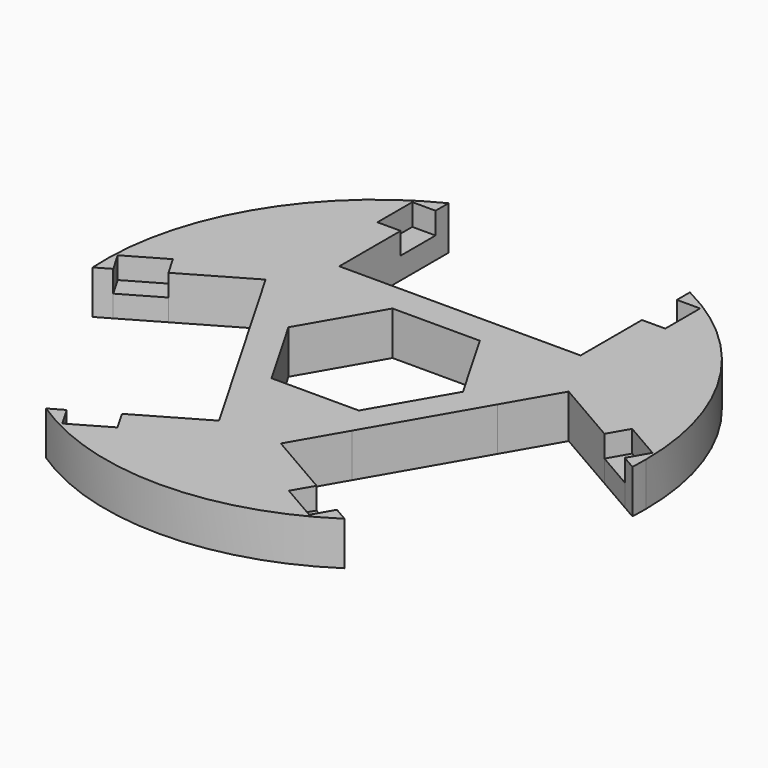
from build123d import *

# Parameters (mm, degrees)
F1_DEPTH = 3.81
F0_W     = 2.032
F0_H     = 3.81
F2_DEPTH = 1.905


with BuildPart() as f1:
    # F0 (on Top) → F1 (new body)
    with BuildSketch(Plane.XY):
        with BuildLine():
            Line((-10.541, 19.71677), (-10.541, 21.139683))
            ThreePointArc((-10.541, 21.139683), (-20.457252, 11.811), (-23.578003, -1.441068))
            Line((-23.578003, -1.441068), (-22.345724, -0.729611))
            Line((-22.345724, -0.729611), (-23.361724, 1.030152))
            Line((-23.361724, 1.030152), (-20.062167, 2.935152))
            Line((-20.062167, 2.935152), (-19.046167, 1.175389))
            Line((-19.046167, 1.175389), (-13.239391, 4.527932))
            Line((-13.239391, 4.527932), (-10.625188, 0))
            Line((-10.625188, 0), (-5.312594, 9.201683))
            Line((-5.312594, 9.201683), (-10.541, 9.201683))
            Line((-10.541, 9.201683), (-10.541, 15.90677))
            Line((-10.541, 15.90677), (-12.573, 15.90677))
            Line((-12.573, 15.90677), (-12.573, 19.71677))
            Line((-12.573, 19.71677), (-10.541, 19.71677))
        make_face()
        Polygon((10.625188, 0), (5.312594, 9.201683), (-5.312594, 9.201683), (-10.625188, 0), (-5.312594, -9.201683), (5.312594, -9.201683), align=None)
        Polygon((-7.625642, 0), (-3.812821, 6.604), (3.812821, 6.604), (7.625642, 0), (3.812821, -6.604), (-3.812821, -6.604), align=None, mode=Mode.SUBTRACT)
        with BuildLine():
            ThreePointArc((23.578003, -1.441068), (23.610998, -0.72087), (23.622, 0))
            ThreePointArc((23.622, 0), (20.087289, 12.42979), (10.541, 21.139683))
            Line((10.541, 21.139683), (10.541, 19.71677))
            Line((10.541, 19.71677), (12.573, 19.71677))
            Line((12.573, 19.71677), (12.573, 15.90677))
            Line((12.573, 15.90677), (10.541, 15.90677))
            Line((10.541, 15.90677), (10.541, 9.201683))
            Line((10.541, 9.201683), (5.312594, 9.201683))
            Line((5.312594, 9.201683), (10.625188, 0))
            Line((10.625188, 0), (13.239391, 4.527932))
            Line((13.239391, 4.527932), (19.046167, 1.175389))
            Line((19.046167, 1.175389), (20.062167, 2.935152))
            Line((20.062167, 2.935152), (23.361724, 1.030152))
            Line((23.361724, 1.030152), (22.345724, -0.729611))
            Line((22.345724, -0.729611), (23.578003, -1.441068))
        make_face()
        with BuildLine():
            ThreePointArc((-13.037003, -19.698615), (0, -23.622), (13.037003, -19.698615))
            Line((13.037003, -19.698615), (11.804724, -18.987159))
            Line((11.804724, -18.987159), (10.788724, -20.746923))
            Line((10.788724, -20.746923), (7.489167, -18.841923))
            Line((7.489167, -18.841923), (8.505167, -17.082159))
            Line((8.505167, -17.082159), (2.698391, -13.729615))
            Line((2.698391, -13.729615), (5.312594, -9.201683))
            Line((5.312594, -9.201683), (-5.312594, -9.201683))
            Line((-5.312594, -9.201683), (-2.698391, -13.729615))
            Line((-2.698391, -13.729615), (-8.505167, -17.082159))
            Line((-8.505167, -17.082159), (-7.489167, -18.841923))
            Line((-7.489167, -18.841923), (-10.788724, -20.746923))
            Line((-10.788724, -20.746923), (-11.804724, -18.987159))
            Line((-11.804724, -18.987159), (-13.037003, -19.698615))
        make_face()
    extrude(amount=F1_DEPTH)

    # F0 (on Top) → F2 (join)
    with BuildSketch(Plane.XY):
        with BuildLine():
            ThreePointArc((23.578003, -1.441068), (23.610998, -0.72087), (23.622, 0))
            ThreePointArc((23.622, 0), (20.087289, 12.42979), (10.541, 21.139683))
            Line((10.541, 21.139683), (10.541, 19.71677))
            Line((10.541, 19.71677), (12.573, 19.71677))
            Line((12.573, 19.71677), (12.573, 15.90677))
            Line((12.573, 15.90677), (10.541, 15.90677))
            Line((10.541, 15.90677), (10.541, 9.201683))
            Line((10.541, 9.201683), (5.312594, 9.201683))
            Line((5.312594, 9.201683), (10.625188, 0))
            Line((10.625188, 0), (13.239391, 4.527932))
            Line((13.239391, 4.527932), (19.046167, 1.175389))
            Line((19.046167, 1.175389), (20.062167, 2.935152))
            Line((20.062167, 2.935152), (23.361724, 1.030152))
            Line((23.361724, 1.030152), (22.345724, -0.729611))
            Line((22.345724, -0.729611), (23.578003, -1.441068))
        make_face()
        with BuildLine():
            ThreePointArc((-13.037003, -19.698615), (0, -23.622), (13.037003, -19.698615))
            Line((13.037003, -19.698615), (11.804724, -18.987159))
            Line((11.804724, -18.987159), (10.788724, -20.746923))
            Line((10.788724, -20.746923), (7.489167, -18.841923))
            Line((7.489167, -18.841923), (8.505167, -17.082159))
            Line((8.505167, -17.082159), (2.698391, -13.729615))
            Line((2.698391, -13.729615), (5.312594, -9.201683))
            Line((5.312594, -9.201683), (-5.312594, -9.201683))
            Line((-5.312594, -9.201683), (-2.698391, -13.729615))
            Line((-2.698391, -13.729615), (-8.505167, -17.082159))
            Line((-8.505167, -17.082159), (-7.489167, -18.841923))
            Line((-7.489167, -18.841923), (-10.788724, -20.746923))
            Line((-10.788724, -20.746923), (-11.804724, -18.987159))
            Line((-11.804724, -18.987159), (-13.037003, -19.698615))
        make_face()
        with BuildLine():
            Line((-10.541, 19.71677), (-10.541, 21.139683))
            ThreePointArc((-10.541, 21.139683), (-20.457252, 11.811), (-23.578003, -1.441068))
            Line((-23.578003, -1.441068), (-22.345724, -0.729611))
            Line((-22.345724, -0.729611), (-23.361724, 1.030152))
            Line((-23.361724, 1.030152), (-20.062167, 2.935152))
            Line((-20.062167, 2.935152), (-19.046167, 1.175389))
            Line((-19.046167, 1.175389), (-13.239391, 4.527932))
            Line((-13.239391, 4.527932), (-10.625188, 0))
            Line((-10.625188, 0), (-5.312594, 9.201683))
            Line((-5.312594, 9.201683), (-10.541, 9.201683))
            Line((-10.541, 9.201683), (-10.541, 15.90677))
            Line((-10.541, 15.90677), (-12.573, 15.90677))
            Line((-12.573, 15.90677), (-12.573, 19.71677))
            Line((-12.573, 19.71677), (-10.541, 19.71677))
        make_face()
        Polygon((-23.361724, 1.030152), (-22.345724, -0.729611), (-19.046167, 1.175389), (-20.062167, 2.935152), align=None)
        Polygon((-8.505167, -17.082159), (-11.804724, -18.987159), (-10.788724, -20.746923), (-7.489167, -18.841923), align=None)
        Polygon((10.788724, -20.746923), (11.804724, -18.987159), (8.505167, -17.082159), (7.489167, -18.841923), align=None)
        Polygon((19.046167, 1.175389), (22.345724, -0.729611), (23.361724, 1.030152), (20.062167, 2.935152), align=None)
        with Locations((-11.557, 17.81177)):
            Rectangle(F0_W, F0_H)
        with Locations((11.557, 17.81177)):
            Rectangle(F0_W, F0_H)
    extrude(amount=F2_DEPTH)


solid = f1.part
